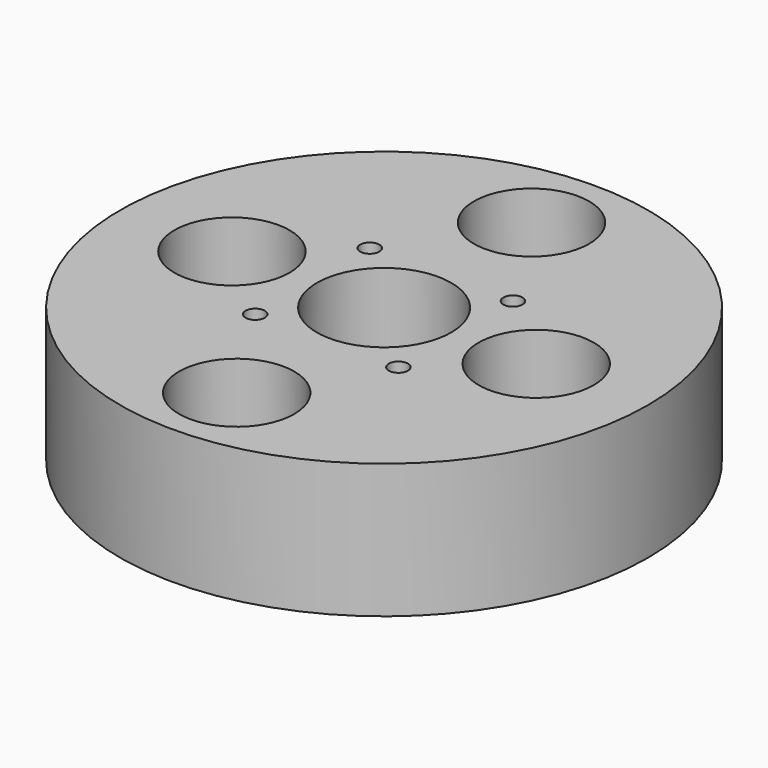
from build123d import *

# Parameters (mm, degrees)
F0_R     = 13.75
F0_R_2   = 1.875
F0_R_3   = 3.5
F1_DEPTH = 7
F2_R     = 3
F2_R_2   = 1.875
F3_DEPTH = 4
F4_R     = 0.5
F5_DEPTH = 8
F6_SIZE  = 1


with BuildPart() as f1:
    # F0 (on Top) → F1 (new body)
    with BuildSketch(Plane.XY):
        Circle(F0_R)
        with Locations((0, -9.6)):
            Circle(F0_R_2, mode=Mode.SUBTRACT)
        with Locations((-7.925, 0)):
            Circle(F0_R_2, mode=Mode.SUBTRACT)
        Circle(F0_R_3, mode=Mode.SUBTRACT)
        with Locations((7.925, 0)):
            Circle(F0_R_2, mode=Mode.SUBTRACT)
        with Locations((0, 9.6)):
            Circle(F0_R_2, mode=Mode.SUBTRACT)
    extrude(amount=F1_DEPTH)

    # F2 (on face) → F3 (cut)
    with BuildSketch(Plane.XY.offset(7)):
        with Locations((0, 9.6)):
            Circle(F2_R)
        with Locations((0, 9.6)):
            Circle(F2_R_2, mode=Mode.SUBTRACT)
        with Locations((-7.925, 0)):
            Circle(F2_R)
        with Locations((-7.925, 0)):
            Circle(F2_R_2, mode=Mode.SUBTRACT)
        with Locations((7.925, 0)):
            Circle(F2_R)
        with Locations((7.925, 0)):
            Circle(F2_R_2, mode=Mode.SUBTRACT)
        with Locations((0, -9.6)):
            Circle(F2_R)
        with Locations((0, -9.6)):
            Circle(F2_R_2, mode=Mode.SUBTRACT)
    extrude(amount=-F3_DEPTH, mode=Mode.SUBTRACT)

    # F4 (on face) → F5 (cut)
    with BuildSketch(Plane.XY.offset(7)):
        with Locations((-3.729988, 3.729988)):
            Circle(F4_R)
        with Locations((3.729988, 3.729988)):
            Circle(F4_R)
        with Locations((3.729988, -3.729988)):
            Circle(F4_R)
        with Locations((-3.729988, -3.729988)):
            Circle(F4_R)
    extrude(amount=-F5_DEPTH, mode=Mode.SUBTRACT)

    # F6
    f6_edges = [f1.edges().sort_by_distance(p)[0] for p in [
        (-3.5, 0, 0),
    ]]
    chamfer(f6_edges, length=F6_SIZE)


solid = f1.part
